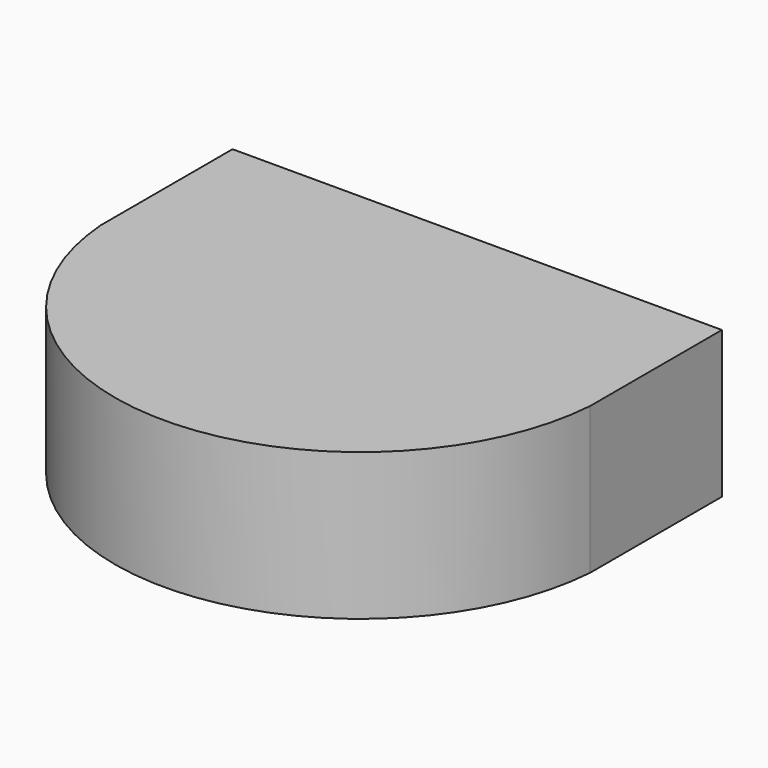
from build123d import *

# Parameters (mm, degrees)
F1_DEPTH = 6


with BuildPart() as f1:
    # F0 (on Top) → F1 (new body)
    with BuildSketch(Plane.XY):
        with BuildLine():
            Line((10, -6.736842), (-10, -6.736842))
            ThreePointArc((-10, -6.736842), (0, -16), (10, -6.736842))
        make_face()
        Polygon((-10, 0), (-10, -6.736842), (10, -6.736842), (10, 0), (0.892831, 0), (-6.686117, 0), align=None)
    extrude(amount=F1_DEPTH)


solid = f1.part
